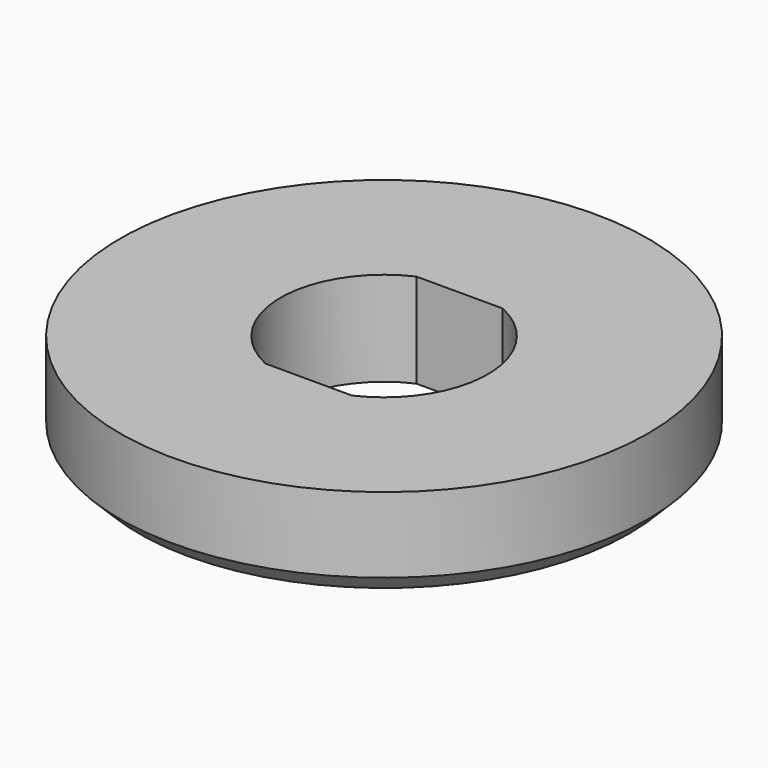
from build123d import *

# Parameters (mm, degrees)
F0_R     = 7
F1_DEPTH = 2.5
F2_SIZE  = 0.5


with BuildPart() as f1:
    # F0 (on Top) → F1 (new body)
    with BuildSketch(Plane.XY):
        Circle(F0_R)
        with BuildLine():
            ThreePointArc((-1.145644, -2.5), (-2.75, 0), (-1.145644, 2.5))
            Line((-1.145644, 2.5), (1.145644, 2.5))
            ThreePointArc((1.145644, 2.5), (2.75, 0), (1.145644, -2.5))
            Line((1.145644, -2.5), (-1.145644, -2.5))
        make_face(mode=Mode.SUBTRACT)
    extrude(amount=F1_DEPTH)

    # F2
    f2_edges = [f1.edges().sort_by_distance(p)[0] for p in [
        (-7, 0, 0),
    ]]
    chamfer(f2_edges, length=F2_SIZE)


solid = f1.part
